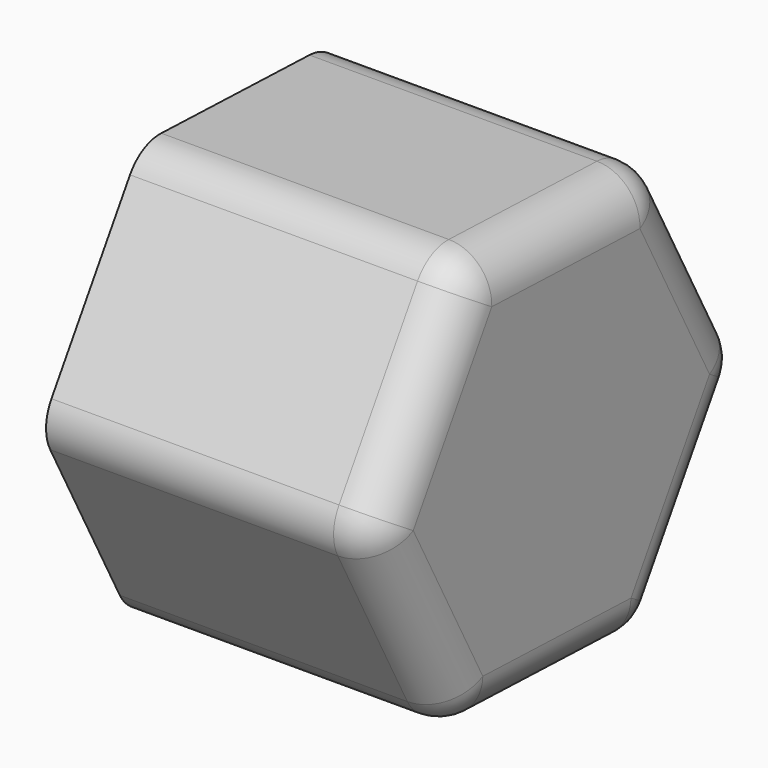
from build123d import *

# Parameters (mm, degrees)
F1_DEPTH = 38.1
F2_R     = 5.08
F3_T     = -2.54


with BuildPart() as f1:
    # F0 (on Right) → F1 (new body)
    with BuildSketch(Plane.YZ):
        Polygon((12.745309, -23.966217), (27.128007, -0.945347), (14.382698, 23.02087), (-12.745309, 23.966217), (-27.128007, 0.945347), (-14.382698, -23.02087), align=None)
    extrude(amount=-F1_DEPTH)

    # F2
    f2_edges = [f1.edges().sort_by_distance(p)[0] for p in [
        (-19.05, -12.745309, 23.966217),
        (-19.05, -27.128007, 0.945347),
        (-19.05, 14.382698, 23.02087),
        (-19.05, 12.745309, -23.966217),
        (-19.05, 27.128007, -0.945347),
        (-19.05, -14.382698, -23.02087),
        (0, 19.936658, -12.455782),
        (0, 20.755353, 11.037761),
        (0, 0.818695, 23.493543),
        (0, -19.936658, 12.455782),
        (0, -20.755353, -11.037761),
        (0, -0.818695, -23.493543),
    ]]
    fillet(f2_edges, radius=F2_R)

    # F3
    f3_openings = [f1.faces().sort_by_distance(p)[0] for p in [
        (-38.1, 0, 0),
    ]]
    offset(amount=F3_T, openings=f3_openings)


solid = f1.part
